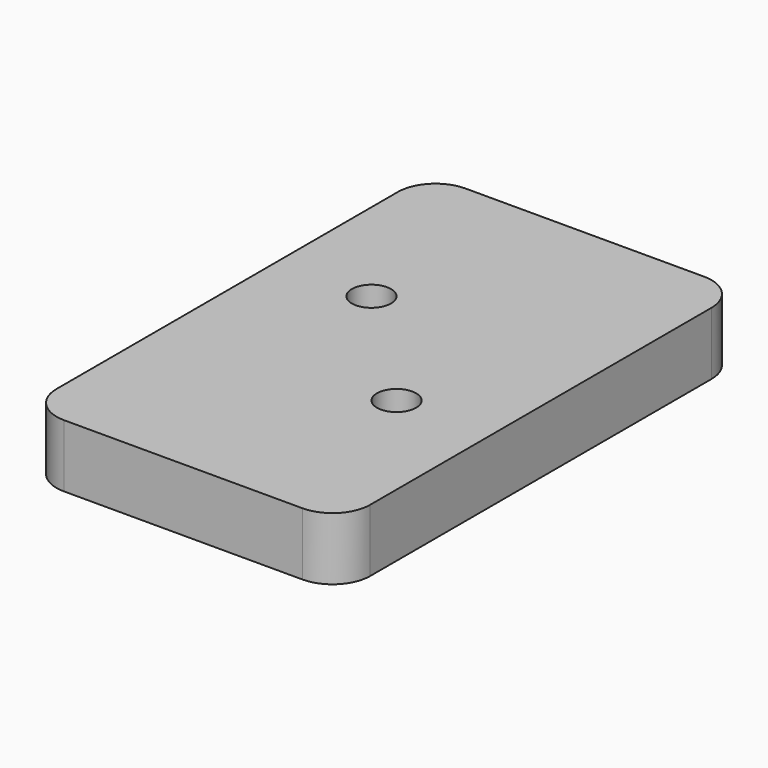
from build123d import *

# Parameters (mm, degrees)
SKETCH_W  = 25
SKETCH_H  = 40
SKETCH_R  = 1.5625
PAD_DEPTH = 5
FILLET_R  = 3


with BuildPart() as part:
    # Sketch → Pad (new body)
    with BuildSketch(Plane.XY):
        with Locations((25, 20)):
            Rectangle(SKETCH_W, SKETCH_H)
        with Locations((20, 25)):
            Circle(SKETCH_R, mode=Mode.SUBTRACT)
        with Locations((30, 15)):
            Circle(SKETCH_R, mode=Mode.SUBTRACT)
    extrude(amount=PAD_DEPTH)

    # Fillet
    fillet_edges = [part.edges().sort_by_distance(p)[0] for p in [
        (12.5, 0, 2.5),
        (12.5, 40, 2.5),
        (37.5, 40, 2.5),
        (37.5, 0, 2.5),
    ]]
    fillet(fillet_edges, radius=FILLET_R)


solid = part.part
